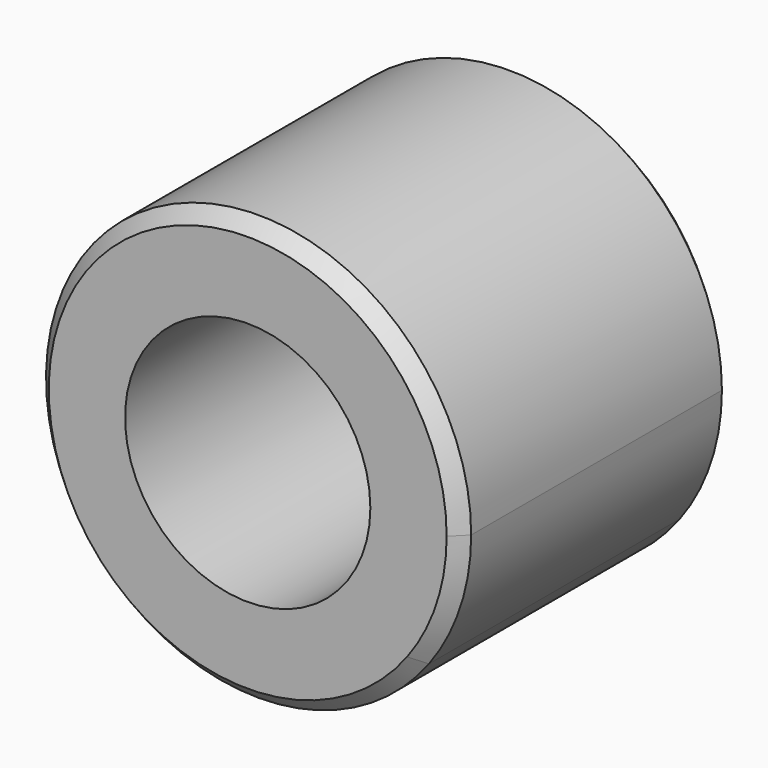
from build123d import *

# Parameters (mm, degrees)
F0_R     = 1.143
F1_DEPTH = 1.5875
F2_SIZE2 = 0.127
F2_SIZE  = 0.127
F3_SIZE2 = 0.127
F3_SIZE  = 0.127


with BuildPart() as f1:
    # F0 (on Front) → F1 (new body, symmetric)
    with BuildSketch(Plane.XZ):
        with BuildLine():
            ThreePointArc((1.5875, 6.772374), (1.880201, 7.3332), (1.9812, 7.957699))
            ThreePointArc((1.9812, 7.957699), (-0.624499, 9.8379), (-1.5875, 6.772374))
            ThreePointArc((-1.5875, 6.772374), (0, 5.976499), (1.5875, 6.772374))
        make_face()
        with Locations((0, 7.957699)):
            Circle(F0_R, mode=Mode.SUBTRACT)
    extrude(amount=F1_DEPTH, both=True)

    # F2
    f2_edges = [f1.edges().sort_by_distance(p)[0] for p in [
        (-0.624499, -1.5875, 9.8379),
    ]]
    chamfer(f2_edges, length=F2_SIZE, length2=F2_SIZE2)

    # F3
    f3_edges = [f1.edges().sort_by_distance(p)[0] for p in [
        (-0.624499, 1.5875, 9.8379),
    ]]
    chamfer(f3_edges, length=F3_SIZE, length2=F3_SIZE2)


solid = f1.part
